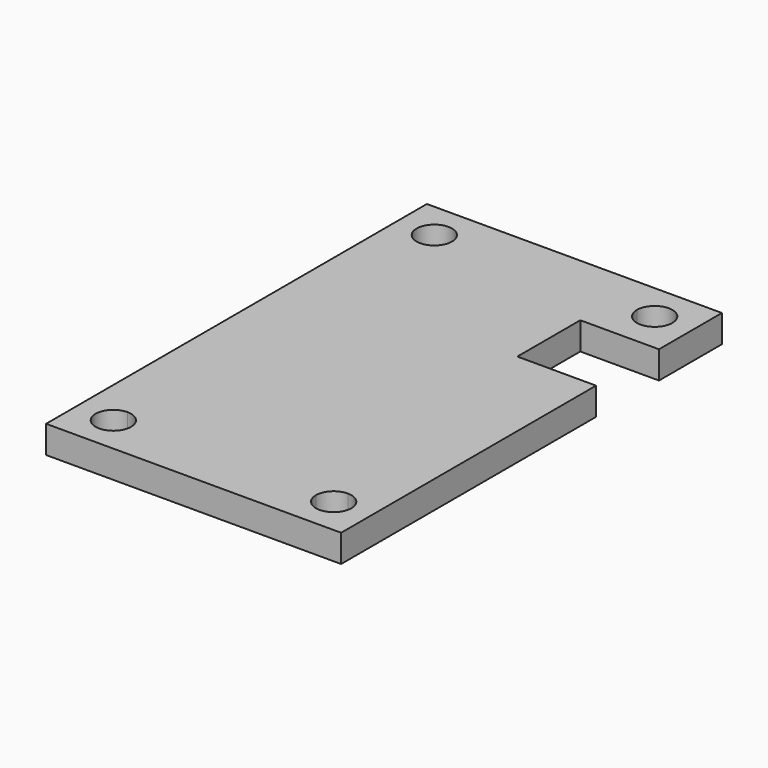
from build123d import *

# Parameters (mm, degrees)
F0_W     = 75
F0_H     = 121
F1_DEPTH = 7
F2_W     = 20
F2_H     = 20
F3_DEPTH = 25


with BuildPart() as f1:
    # F0 (on Top) → F1 (new body)
    with BuildSketch(Plane.XY):
        Rectangle(F0_W, F0_H)
        with BuildLine():
            Line((23.5, -51), (-23.5, -51))
            ThreePointArc((-23.5, -51), (-31.1819805153, -54.1819805153), (-28, -46.5))
            Line((-28, -46.5), (-28, 46.5))
            ThreePointArc((-28, 46.5), (-31.1819805153, 54.1819805153), (-23.5, 51))
            Line((-23.5, 51), (23.5, 51))
            ThreePointArc((23.5, 51), (28, 55.5), (32.5, 51))
            ThreePointArc((32.5, 51), (31.1819805153, 47.8180194847), (28, 46.5))
            Line((28, 46.5), (28, -46.5))
            ThreePointArc((28, -46.5), (31.1819805153, -47.8180194847), (32.5, -51))
            ThreePointArc((32.5, -51), (28, -55.5), (23.5, -51))
        make_face(mode=Mode.SUBTRACT)
        with BuildLine():
            ThreePointArc((-28, -46.5), (-24.8180194847, -47.8180194847), (-23.5, -51))
            Line((-23.5, -51), (23.5, -51))
            ThreePointArc((23.5, -51), (24.8180194847, -47.8180194847), (28, -46.5))
            Line((28, -46.5), (28, 46.5))
            ThreePointArc((28, 46.5), (24.8180194847, 47.8180194847), (23.5, 51))
            Line((23.5, 51), (-23.5, 51))
            ThreePointArc((-23.5, 51), (-24.8180194847, 47.8180194847), (-28, 46.5))
            Line((-28, 46.5), (-28, -46.5))
        make_face()
    extrude(amount=F1_DEPTH)

    # F2 (on face) → F3 (cut)
    with BuildSketch(Plane.XY.offset(7)):
        with Locations((27.5, 30.5)):
            Rectangle(F2_W, F2_H)
    extrude(amount=-F3_DEPTH, mode=Mode.SUBTRACT)


solid = f1.part
